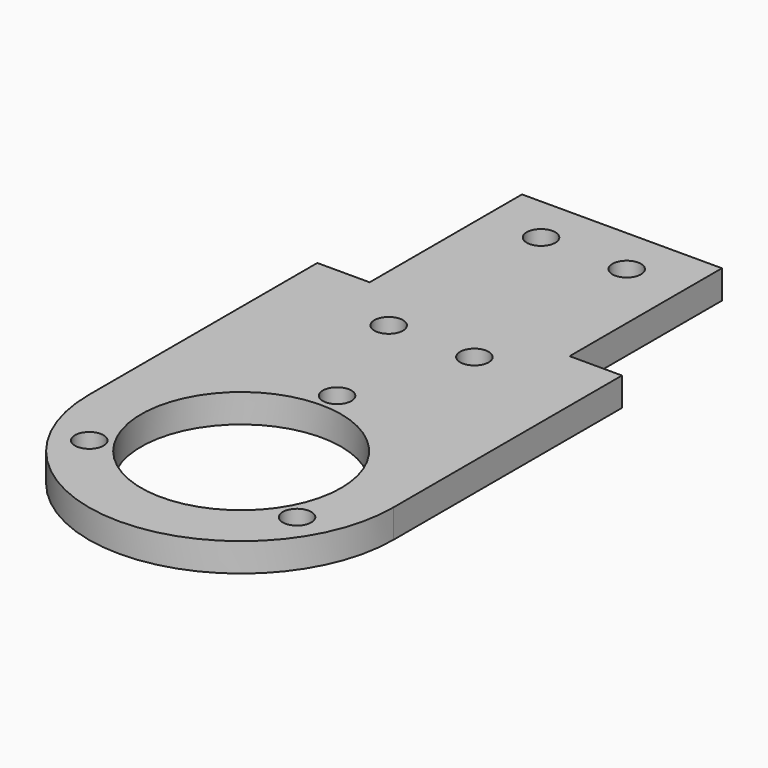
from build123d import *

# Parameters (mm, degrees)
SKETCH_R     = 1.5
SKETCH_R_2   = 10.5
PAD_DEPTH    = 3
SKETCH001_W  = 5.5
SKETCH001_H  = 20
POCKET_DEPTH = 3.001


with BuildPart() as part:
    # Sketch → Pad (new body)
    with BuildSketch(Plane.XY):
        with BuildLine():
            ThreePointArc((-16, 0), (0, -16), (16, 0))
            Line((16, 50), (16, 0))
            Line((-16, 50), (16, 50))
            Line((-16, 0), (-16, 50))
        make_face()
        with Locations((0, 12.6)):
            Circle(SKETCH_R, mode=Mode.SUBTRACT)
        with Locations((10.91192, -6.3)):
            Circle(SKETCH_R, mode=Mode.SUBTRACT)
        with Locations((-10.91192, -6.3)):
            Circle(SKETCH_R, mode=Mode.SUBTRACT)
        Circle(SKETCH_R_2, mode=Mode.SUBTRACT)
        with Locations((-4.5, 45)):
            Circle(SKETCH_R, mode=Mode.SUBTRACT)
        with Locations((4.5, 45)):
            Circle(SKETCH_R, mode=Mode.SUBTRACT)
        with Locations((-4.5, 25)):
            Circle(SKETCH_R, mode=Mode.SUBTRACT)
        with Locations((4.5, 25)):
            Circle(SKETCH_R, mode=Mode.SUBTRACT)
    extrude(amount=PAD_DEPTH)

    # Sketch001 → Pocket (cut, through all)
    with BuildSketch(Plane.XY.offset(3)):
        with Locations((-13.25, 40)):
            Rectangle(SKETCH001_W, SKETCH001_H)
        with Locations((13.25, 40)):
            Rectangle(SKETCH001_W, SKETCH001_H)
    extrude(amount=-POCKET_DEPTH, mode=Mode.SUBTRACT)


solid = part.part
